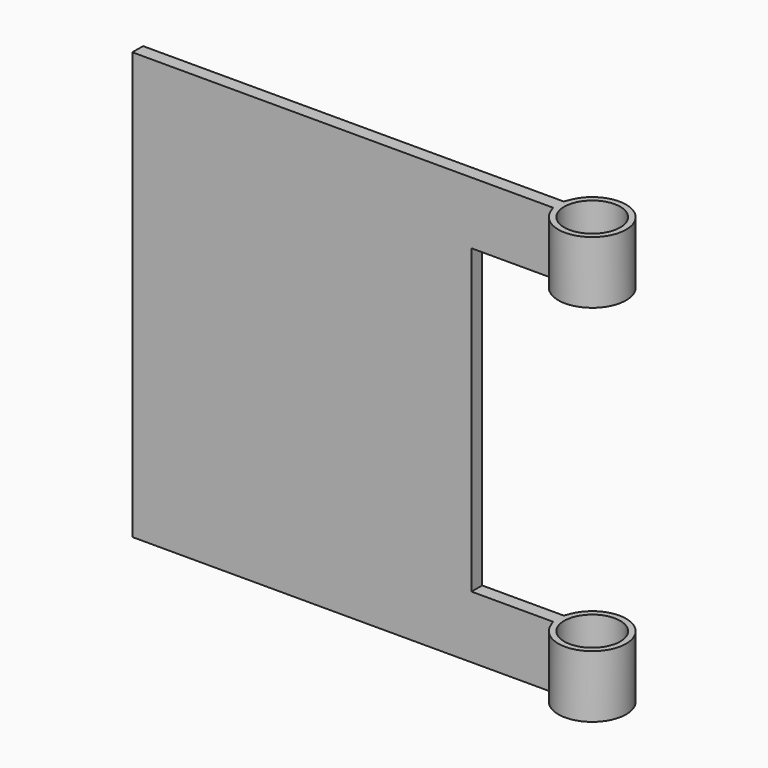
from build123d import *

# Parameters (mm, degrees)
F0_W     = 31.46597
F0_H     = 31.925406
F1_DEPTH = 1
F2_R     = 2.098305
F3_DEPTH = 31.925406
F4_W     = 12.19663
F4_H     = 22.610463
F5_DEPTH = 3.81


with BuildPart() as f1:
    # F0 (on Front) → F1 (new body)
    with BuildSketch(Plane.XZ):
        with Locations((15.732985, 15.962703)):
            Rectangle(F0_W, F0_H)
    extrude(amount=F1_DEPTH)

    # F2 (on face) → F3 (join, through all)
    with BuildSketch(Plane.XY.offset(31.925406)):
        with BuildLine():
            Line((31.46597, -1), (31.655797, -1.462564))
            ThreePointArc((31.655797, -1.462564), (36.536716, -0.5), (31.655797, 0.462564))
            Line((31.655797, 0.462564), (31.46597, 0))
            Line((31.46597, 0), (31.46597, -1))
        make_face()
        with Locations((34.001343, -0.5)):
            Circle(F2_R, mode=Mode.SUBTRACT)
    extrude(amount=-F3_DEPTH)

    # F4 (on face) → F5 (cut, symmetric)
    with BuildSketch(Plane.XZ.offset(1)):
        with Locations((31.46597, 15.962703)):
            Rectangle(F4_W, F4_H)
    extrude(amount=F5_DEPTH, both=True, mode=Mode.SUBTRACT)


solid = f1.part
